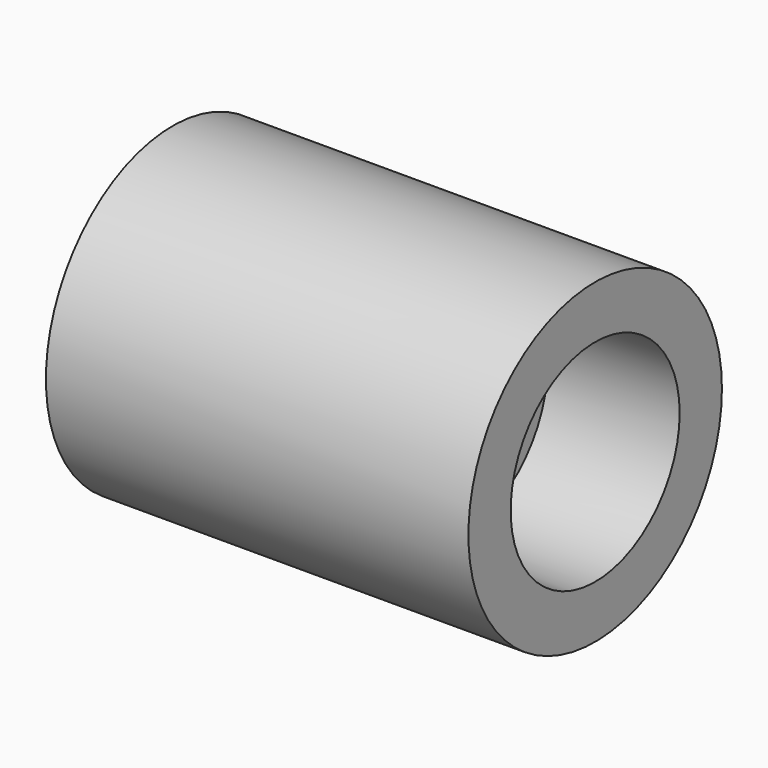
from build123d import *

# Parameters (mm, degrees)
F0_R     = 9.525
F1_DEPTH = 25.4
F2_R     = 6.35
F3_DEPTH = 7.9375
F4_R     = 3.96875
F5_DEPTH = 17.4635


with BuildPart() as f1:
    # F0 (on Right) → F1 (new body)
    with BuildSketch(Plane.YZ):
        Circle(F0_R)
    extrude(amount=F1_DEPTH)

    # F2 (on face) → F3 (cut)
    with BuildSketch(Plane.YZ.offset(25.4)):
        Circle(F2_R)
    extrude(amount=-F3_DEPTH, mode=Mode.SUBTRACT)

    # F4 (on face) → F5 (cut, through all)
    with BuildSketch(Plane.YZ.offset(17.4625)):
        Circle(F4_R)
    extrude(amount=-F5_DEPTH, mode=Mode.SUBTRACT)


solid = f1.part
